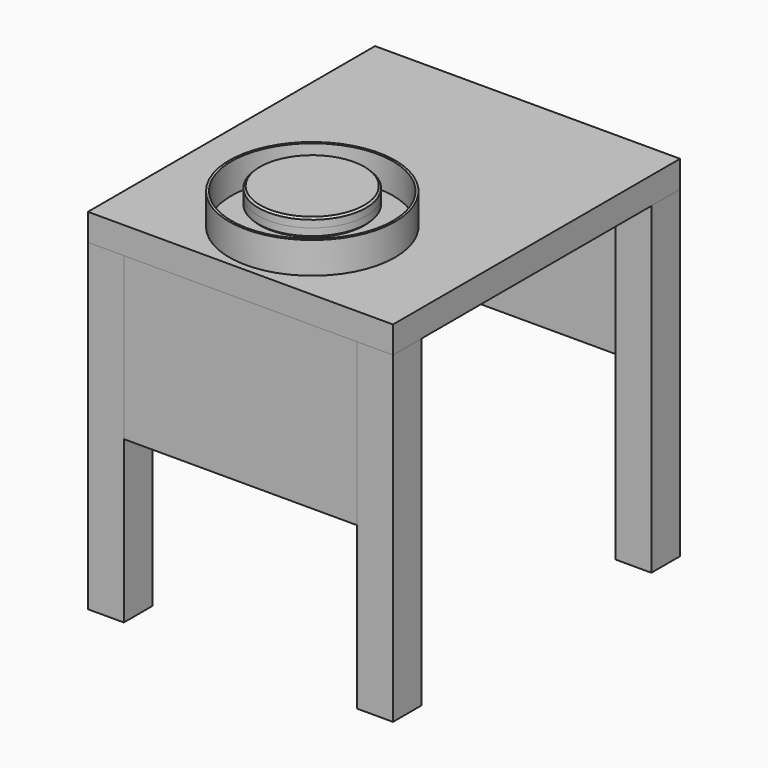
from build123d import *

# Parameters (mm, degrees)
F0_W          = 101.6
F0_H          = 101.6
F1_DEPTH      = 914.4
F2_W          = 863.6
F2_H          = 1016
F3_DEPTH      = 76.2
F5_D          = 31.75
F6_R          = 15.875
F7_DEPTH      = 50.8
F7_DEPTH_BACK = 152.4
F8_R          = 152.4
F8_R_2        = 3.175
F9_DEPTH      = 25.4
F10_R         = 152.4
F11_DEPTH     = 25.4
F12_SIZE      = 5.08
F12_2_SIZE    = 5.08
F13_R         = 234.95
F13_R_2       = 228.6
F14_DEPTH     = 88.9
F15_R         = 228.6
F16_DEPTH     = 3.175
F17_R         = 152.4
F18_DEPTH     = 38.1
F19_W         = 660.4
F19_H         = 19.05
F20_DEPTH     = 457.2


with BuildPart() as f1:
    # F0 (on Top) → F1 (new body)
    with BuildSketch(Plane.XY):
        with Locations((-381, 457.2)):
            Rectangle(F0_W, F0_H)
        with Locations((381, 457.2)):
            Rectangle(F0_W, F0_H)
        with Locations((381, -457.2)):
            Rectangle(F0_W, F0_H)
        with Locations((-381, -457.2)):
            Rectangle(F0_W, F0_H)
    extrude(amount=F1_DEPTH)


with BuildPart() as f3:
    # F2 (on face) → F3 (new body)
    with BuildSketch(Plane.XY.offset(914.4)):
        Rectangle(F2_W, F2_H)
    extrude(amount=F3_DEPTH)

    # F5 (through all)
    with Locations(Plane.XY.offset(990.6)):
        with Locations((0, -254)):
            Hole(F5_D / 2)

    # F6 (on face) → F7 (join, two sides)
    with BuildSketch(Plane.XY.offset(990.6)) as f7_sk:
        with Locations((0, -254)):
            Circle(F6_R)
    extrude(amount=F7_DEPTH)
    extrude(f7_sk.sketch, amount=-F7_DEPTH_BACK)

    # F8 (on face) → F9 (join)
    with BuildSketch(Plane.XY.offset(1041.4)):
        with Locations((0, -254)):
            Circle(F8_R)
        with Locations((-12.058235, -276.355289)):
            Circle(F8_R_2, mode=Mode.SUBTRACT)
        with Locations((17.534944, -272.376228)):
            Circle(F8_R_2, mode=Mode.SUBTRACT)
        with Locations((-24.987343, -249.440101)):
            Circle(F8_R_2, mode=Mode.SUBTRACT)
        with Locations((-3.384792, -228.826538)):
            Circle(F8_R_2, mode=Mode.SUBTRACT)
        with Locations((22.895427, -243.001844)):
            Circle(F8_R_2, mode=Mode.SUBTRACT)
    extrude(amount=F9_DEPTH)

    # F12#2
    f12_2_edges = [f3.edges().sort_by_distance(p)[0] for p in [
        (-152.4, -254, 1041.4),
    ]]
    chamfer(f12_2_edges, length=F12_2_SIZE)


with BuildPart() as f11:
    # F10 (on face) → F11 (new body)
    with BuildSketch(Plane.XY.offset(1066.8)):
        with Locations((0, -254)):
            Circle(F10_R)
    extrude(amount=F11_DEPTH)

    # F12
    f12_edges = [f11.edges().sort_by_distance(p)[0] for p in [
        (-152.4, -254, 1092.2),
    ]]
    chamfer(f12_edges, length=F12_SIZE)


with BuildPart() as f14:
    # F13 (on face) → F14 (new body)
    with BuildSketch(Plane.XY.offset(990.6)):
        with Locations((0, -254)):
            Circle(F13_R)
        with Locations((0, -254)):
            Circle(F13_R_2, mode=Mode.SUBTRACT)
    extrude(amount=F14_DEPTH)


with BuildPart() as f16:
    # F15 (on face) → F16 (new body)
    with BuildSketch(Plane.XY.offset(990.6)):
        with Locations((0, -254)):
            Circle(F15_R)
    extrude(amount=F16_DEPTH)


with BuildPart() as f18:
    # F17 (on face) → F18 (new body)
    with BuildSketch(Plane(origin=(0, 0, 838.2), x_dir=(1, 0, 0), z_dir=(0, 0, -1))):
        with Locations((0, 254)):
            Circle(F17_R)
    extrude(amount=-F18_DEPTH)


with BuildPart() as f20:
    # F19 (on face) → F20 (new body)
    with BuildSketch(Plane(origin=(0, 0, 914.4), x_dir=(1, 0, 0), z_dir=(0, 0, -1))):
        with Locations((0, -498.475)):
            Rectangle(F19_W, F19_H)
    extrude(amount=F20_DEPTH)


with BuildPart() as f21_1:
    # F21: instance of F20
    add(f20.part.mirror(Plane.XZ))


solid = Compound([f1.part, f3.part, f11.part, f14.part, f16.part, f18.part, f20.part, f21_1.part])
